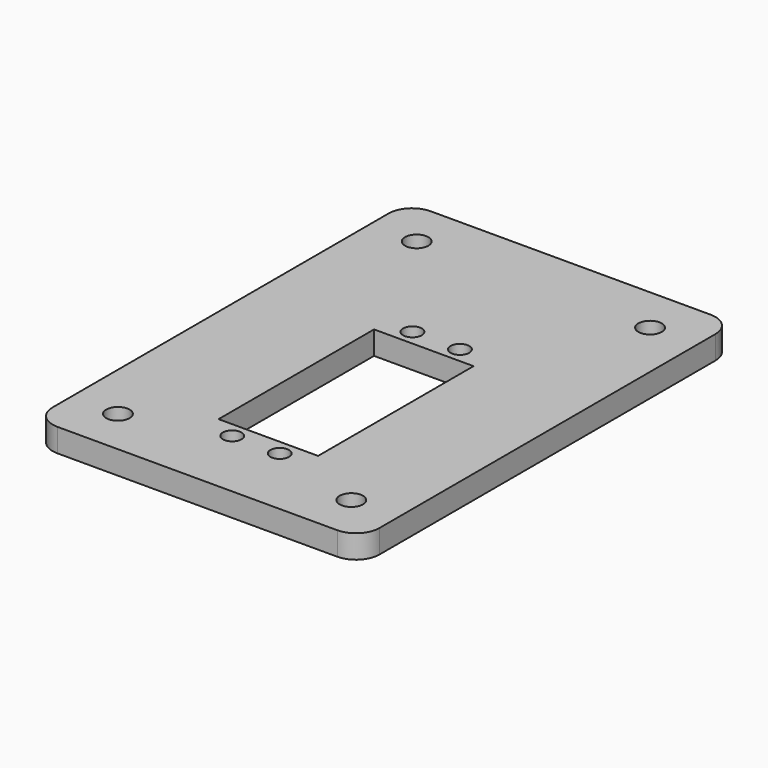
from build123d import *

# Parameters (mm, degrees)
F0_R     = 2.5
F0_R_2   = 2
F0_W     = 21.32
F0_H     = 41.64
F1_DEPTH = 5


with BuildPart() as f1:
    # F0 (on Top) → F1 (new body)
    with BuildSketch(Plane.XY):
        with BuildLine():
            Line((30, 50), (-30, 50))
            ThreePointArc((-30, 50), (-33.535534, 48.535534), (-35, 45))
            Line((-35, 45), (-35, -45))
            ThreePointArc((-35, -45), (-33.535534, -48.535534), (-30, -50))
            Line((-30, -50), (30, -50))
            ThreePointArc((30, -50), (33.535534, -48.535534), (35, -45))
            Line((35, -45), (35, 45))
            ThreePointArc((35, 45), (33.535534, 48.535534), (30, 50))
        make_face()
        with Locations((-25, -40)):
            Circle(F0_R, mode=Mode.SUBTRACT)
        with Locations((-5.085, -34.29)):
            Circle(F0_R_2, mode=Mode.SUBTRACT)
        with Locations((5.085, -34.29)):
            Circle(F0_R_2, mode=Mode.SUBTRACT)
        with Locations((25, -40)):
            Circle(F0_R, mode=Mode.SUBTRACT)
        with Locations((0, -10.16)):
            Rectangle(F0_W, F0_H, mode=Mode.SUBTRACT)
        with Locations((-5.085, 13.97)):
            Circle(F0_R_2, mode=Mode.SUBTRACT)
        with Locations((-25, 40)):
            Circle(F0_R, mode=Mode.SUBTRACT)
        with Locations((5.085, 13.97)):
            Circle(F0_R_2, mode=Mode.SUBTRACT)
        with Locations((25, 40)):
            Circle(F0_R, mode=Mode.SUBTRACT)
    extrude(amount=F1_DEPTH)


solid = f1.part
